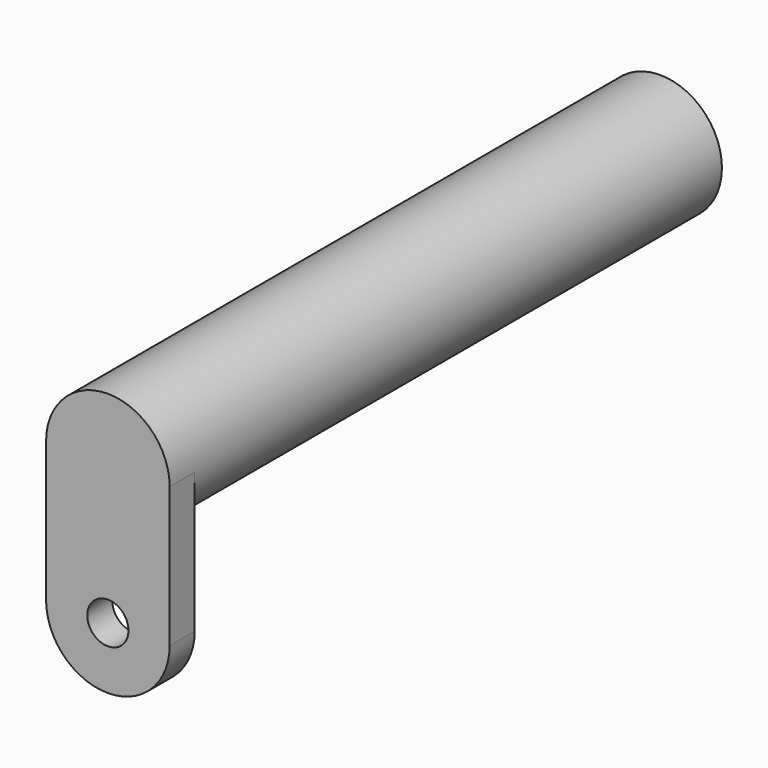
from build123d import *

# Parameters (mm, degrees)
F0_R     = 4.7625
F0_R_2   = 4.188265
F1_DEPTH = 50.8
F3_DEPTH = 2.413
F4_R     = 1.5875
F5_DEPTH = 53.214


with BuildPart() as f1:
    # F0 (on Front) → F1 (new body)
    with BuildSketch(Plane.XZ):
        Circle(F0_R)
        Circle(F0_R_2, mode=Mode.SUBTRACT)
    extrude(amount=F1_DEPTH)

    # F2 (on face) → F3 (join)
    with BuildSketch(Plane.XZ.offset(50.8)):
        with BuildLine():
            Line((4.7625, -10.792703), (4.7625, 0))
            ThreePointArc((4.7625, 0), (0, 4.7625), (-4.7625, 0))
            Line((-4.7625, 0), (-4.7625, -10.792703))
            ThreePointArc((-4.7625, -10.792703), (0, -15.555203), (4.7625, -10.792703))
        make_face()
    extrude(amount=F3_DEPTH)

    # F4 (on face) → F5 (cut, through all)
    with BuildSketch(Plane.XZ.offset(53.213)):
        with Locations((0, -10.792703)):
            Circle(F4_R)
    extrude(amount=-F5_DEPTH, mode=Mode.SUBTRACT)


solid = f1.part
